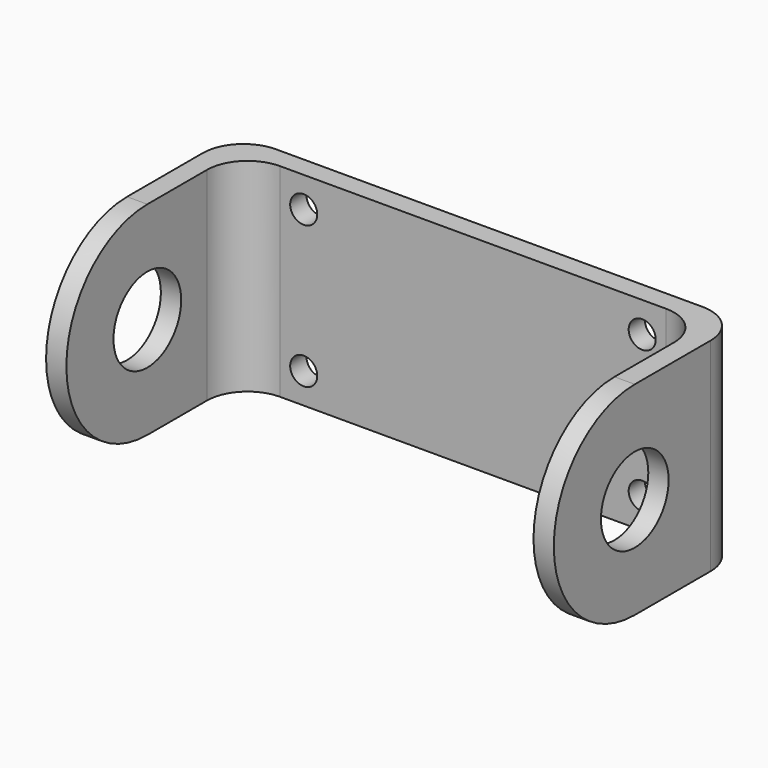
from build123d import *

# Parameters (mm, degrees)
F0_W     = 75
F0_H     = 30
F0_R     = 2
F1_DEPTH = 3
F2_W     = 3
F2_H     = 30
F3_DEPTH = 37
F4_R     = 6.25
F5_DEPTH = 2500
F6_R     = 6


with BuildPart() as f1:
    # F0 (on Front) → F1 (new body)
    with BuildSketch(Plane.XZ):
        Rectangle(F0_W, F0_H)
        with Locations((-25, -10.5)):
            Circle(F0_R, mode=Mode.SUBTRACT)
        with Locations((25, -10.5)):
            Circle(F0_R, mode=Mode.SUBTRACT)
        with Locations((-25, 10.5)):
            Circle(F0_R, mode=Mode.SUBTRACT)
        with Locations((25, 10.5)):
            Circle(F0_R, mode=Mode.SUBTRACT)
    extrude(amount=F1_DEPTH)

    # F2 (on face) → F3 (join)
    with BuildSketch(Plane.XZ.offset(3)):
        with Locations((-36, 0)):
            Rectangle(F2_W, F2_H)
        with Locations((36, 0)):
            Rectangle(F2_W, F2_H)
    extrude(amount=F3_DEPTH)

    # F4 (on face) → F5 (cut)
    with BuildSketch(Plane.YZ.offset(37.5)):
        with Locations((-20, 0)):
            Circle(F4_R)
        with BuildLine():
            ThreePointArc((-20, -15), (-34.945094, 0), (-20, 15))
            Line((-20, 15), (-40, 15))
            Line((-40, 15), (-40, -15))
            Line((-40, -15), (-20, -15))
        make_face()
    extrude(amount=-F5_DEPTH, mode=Mode.SUBTRACT)

    # F6
    f6_edges = [f1.edges().sort_by_distance(p)[0] for p in [
        (37.5, 0, 0),
        (-37.5, 0, 0),
        (-34.5, -3, 0),
        (34.5, -3, 0),
    ]]
    fillet(f6_edges, radius=F6_R)


solid = f1.part
